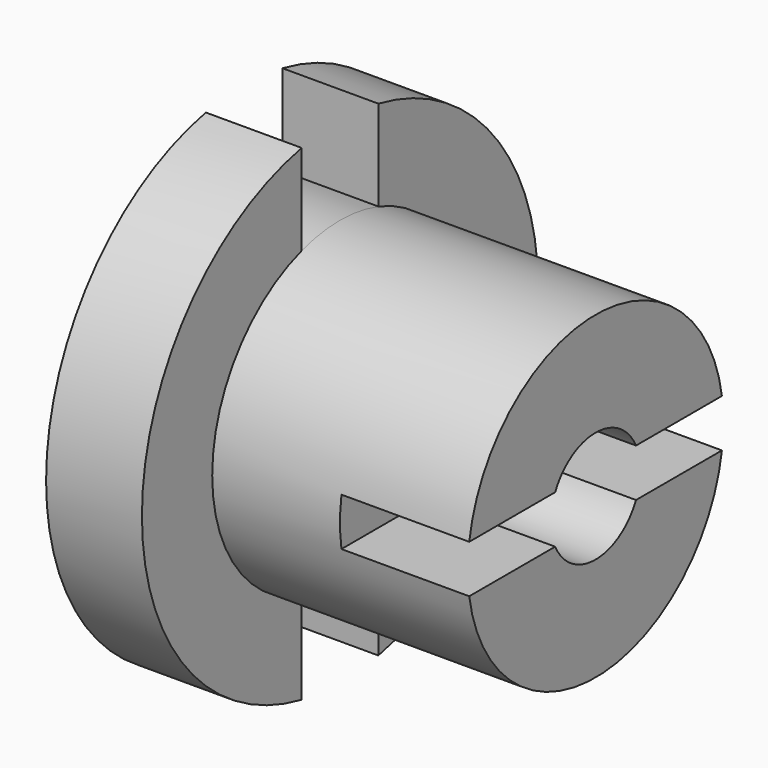
from build123d import *

# Parameters (mm, degrees)
F0_R     = 31
F1_DEPTH = 44
F2_R     = 31
F2_R_2   = 20
F3_DEPTH = 32
F5_DEPTH = 25
F7_DEPTH = 16


with BuildPart() as f1:
    # F0 (on Right) → F1 (new body)
    with BuildSketch(Plane.YZ):
        Circle(F0_R)
    extrude(amount=F1_DEPTH)

    # F2 (on face) → F3 (cut)
    with BuildSketch(Plane.YZ.offset(44)):
        Circle(F2_R)
        Circle(F2_R_2, mode=Mode.SUBTRACT)
    extrude(amount=-F3_DEPTH, mode=Mode.SUBTRACT)

    # F4 (on face) → F5 (cut)
    with BuildSketch(Plane.YZ.offset(12)):
        with BuildLine():
            ThreePointArc((6, 30.4138126515), (0, 31), (-6, 30.4138126515))
            Line((-6, 30.4138126515), (-6, 19.0787840283))
            ThreePointArc((-6, 19.0787840283), (0, 20), (6, 19.0787840283))
            Line((6, 19.0787840283), (6, 30.4138126515))
        make_face()
        with BuildLine():
            Line((-6, -19.0787840283), (-6, -30.4138126515))
            ThreePointArc((-6, -30.4138126515), (0, -31), (6, -30.4138126515))
            Line((6, -30.4138126515), (6, -19.0787840283))
            ThreePointArc((6, -19.0787840283), (0, -20), (-6, -19.0787840283))
        make_face()
    extrude(amount=-F5_DEPTH, mode=Mode.SUBTRACT)

    # F6 (on face) → F7 (cut)
    with BuildSketch(Plane.YZ.offset(44)):
        with BuildLine():
            Line((-19.7737199333, -3), (-6.3245553203, -3))
            ThreePointArc((-6.3245553203, -3), (0, -7), (6.3245553203, -3))
            Line((6.3245553203, -3), (19.7737199333, -3))
            ThreePointArc((19.7737199333, -3), (19.9433497521, -1.5042608375), (20, 0))
            ThreePointArc((20, 0), (19.9433497521, 1.5042608375), (19.7737199333, 3))
            Line((19.7737199333, 3), (6.3245553203, 3))
            ThreePointArc((6.3245553203, 3), (0, 7), (-6.3245553203, 3))
            Line((-6.3245553203, 3), (-19.7737199333, 3))
            ThreePointArc((-19.7737199333, 3), (-20, 0), (-19.7737199333, -3))
        make_face()
    extrude(amount=-F7_DEPTH, mode=Mode.SUBTRACT)


solid = f1.part
